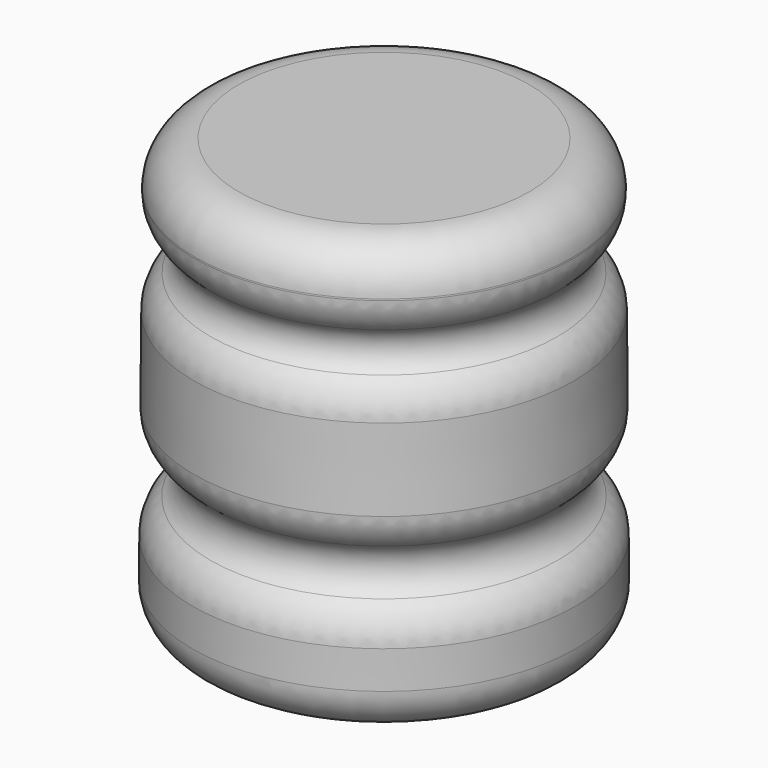
from build123d import *

# Parameters (mm, degrees)
F2_R = 5.08


with BuildPart() as f1:
    # F0 (on Front) → F1 (revolve)
    with BuildSketch(Plane.XZ):
        with BuildLine():
            Line((-41.8190695345, 59.0049885213), (-63.7788549066, 59.0049885213))
            Line((-63.7788549066, 59.0049885213), (-63.7788549066, 8.7839141488))
            Line((-63.7788549066, 8.7839141488), (-41.4371602237, 8.7839141488))
            Line((-41.4371602237, 8.7839141488), (-41.5349269509, 21.6402387715))
            ThreePointArc((-41.5349269509, 21.6402387715), (-44.9300771019, 24.9841413731), (-41.5861745003, 28.379291524))
            Line((-41.5861745003, 28.379291524), (-41.7093181225, 44.5726778362))
            ThreePointArc((-41.7093181225, 44.5726778362), (-44.7061777781, 47.5243018744), (-41.7545537399, 50.52116153))
            Line((-41.7545537399, 50.52116153), (-41.8190695345, 59.0049885213))
        make_face()
    revolve(axis=Axis((-63.7788549066, 0, 33.8944513351), (0, 0, -1)))

    # F2
    f2_edges = [f1.edges().sort_by_distance(p)[0] for p in [
        (-85.73864, 0, 59.004989),
        (-85.803156, 0, 50.521162),
        (-85.848392, 0, 44.572678),
        (-85.971535, 0, 28.379292),
        (-86.022783, 0, 21.640239),
        (-44.930077, 0, 24.984141),
        (-86.12055, 0, 8.783914),
    ]]
    fillet(f2_edges, radius=F2_R)


solid = f1.part
